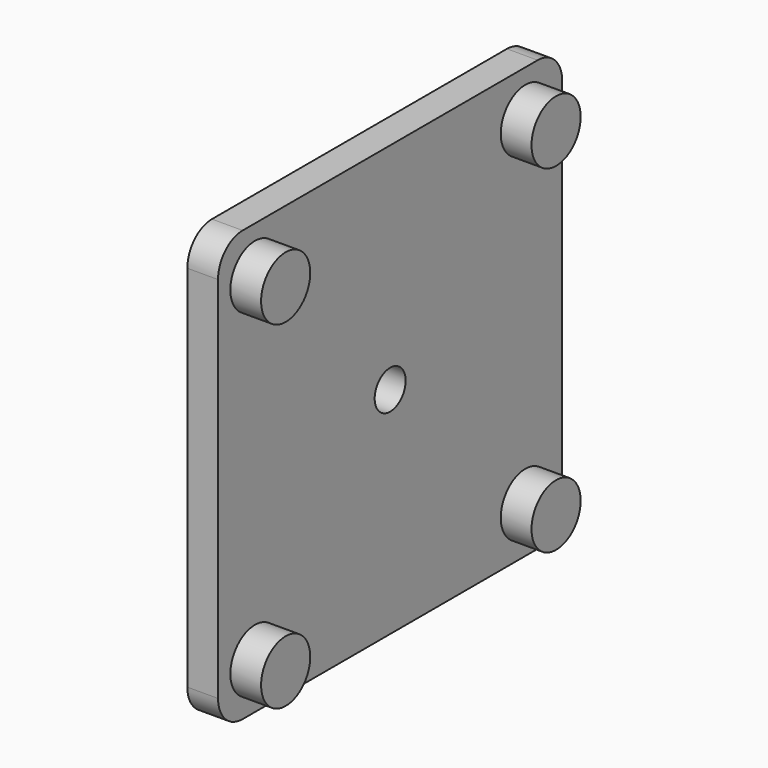
from build123d import *

# Parameters (mm, degrees)
F0_R     = 6.35
F0_R_2   = 4
F1_DEPTH = 6.35
F2_DEPTH = 12.7


with BuildPart() as f1:
    # F0 (on Right) → F1 (new body)
    with BuildSketch(Plane.YZ):
        with BuildLine():
            Line((-38.1, -44.45), (38.1, -44.45))
            ThreePointArc((38.1, -44.45), (42.590128, -42.590128), (44.45, -38.1))
            Line((44.45, -38.1), (44.45, 38.1))
            ThreePointArc((44.45, 38.1), (42.590128, 42.590128), (38.1, 44.45))
            Line((38.1, 44.45), (-38.1, 44.45))
            ThreePointArc((-38.1, 44.45), (-42.590128, 42.590128), (-44.45, 38.1))
            Line((-44.45, 38.1), (-44.45, -38.1))
            ThreePointArc((-44.45, -38.1), (-42.590128, -42.590128), (-38.1, -44.45))
        make_face()
        with Locations((-34.925, -34.925)):
            Circle(F0_R, mode=Mode.SUBTRACT)
        with Locations((34.925, -34.925)):
            Circle(F0_R, mode=Mode.SUBTRACT)
        with Locations((-34.925, 34.925)):
            Circle(F0_R, mode=Mode.SUBTRACT)
        Circle(F0_R_2, mode=Mode.SUBTRACT)
        with Locations((34.925, 34.925)):
            Circle(F0_R, mode=Mode.SUBTRACT)
    extrude(amount=F1_DEPTH)

    # F0 (on Right) → F2 (join)
    with BuildSketch(Plane.YZ):
        with Locations((-34.925, 34.925)):
            Circle(F0_R)
        with Locations((34.925, 34.925)):
            Circle(F0_R)
        with Locations((34.925, -34.925)):
            Circle(F0_R)
        with Locations((-34.925, -34.925)):
            Circle(F0_R)
    extrude(amount=F2_DEPTH)


solid = f1.part
